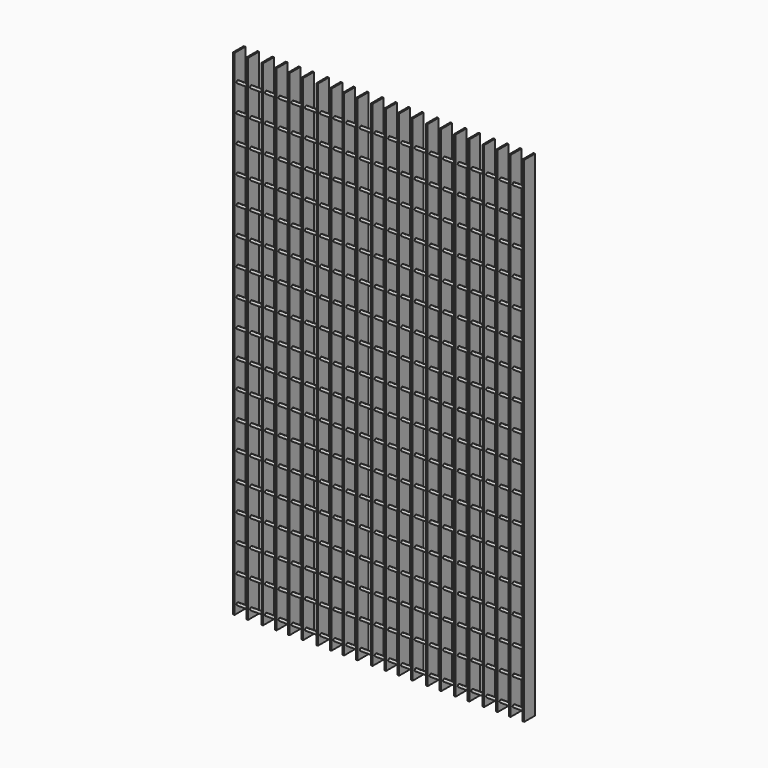
from build123d import *

# Parameters (mm, degrees)
F0_W     = 6
F0_H     = 1830
F1_DEPTH = 50
F3_DEPTH = 535


with BuildPart() as f1:
    # F0 (on Front) → F1 (new body)
    with BuildSketch(Plane.XZ):
        with Locations((-532, 0)):
            Rectangle(F0_W, F0_H)
        with Locations((-482, 0)):
            Rectangle(F0_W, F0_H)
        with Locations((-426.807425, 0)):
            Rectangle(F0_W, F0_H)
        with Locations((-376.807425, 0)):
            Rectangle(F0_W, F0_H)
        with Locations((-328.715792, 2.1e-05)):
            Rectangle(F0_W, F0_H)
        with Locations((-278.715792, 2.1e-05)):
            Rectangle(F0_W, F0_H)
        with Locations((-223.523217, 2.1e-05)):
            Rectangle(F0_W, F0_H)
        with Locations((-173.523217, 2.1e-05)):
            Rectangle(F0_W, F0_H)
        with Locations((-126.523218, 2.1e-05)):
            Rectangle(F0_W, F0_H)
        with Locations((-76.523218, 2.1e-05)):
            Rectangle(F0_W, F0_H)
        with Locations((-21.330642, 2.1e-05)):
            Rectangle(F0_W, F0_H)
        with Locations((28.669358, 2.1e-05)):
            Rectangle(F0_W, F0_H)
        with Locations((76.76099, 4.3e-05)):
            Rectangle(F0_W, F0_H)
        with Locations((126.76099, 4.3e-05)):
            Rectangle(F0_W, F0_H)
        with Locations((181.953565, 4.3e-05)):
            Rectangle(F0_W, F0_H)
        with Locations((231.953565, 4.3e-05)):
            Rectangle(F0_W, F0_H)
        with Locations((285.95365, 4.3e-05)):
            Rectangle(F0_W, F0_H)
        with Locations((335.95365, 4.3e-05)):
            Rectangle(F0_W, F0_H)
        with Locations((391.146225, 4.3e-05)):
            Rectangle(F0_W, F0_H)
        with Locations((441.146225, 4.3e-05)):
            Rectangle(F0_W, F0_H)
        with Locations((489.237857, 6.4e-05)):
            Rectangle(F0_W, F0_H)
        with Locations((539.237857, 6.4e-05)):
            Rectangle(F0_W, F0_H)
    extrude(amount=F1_DEPTH)


with BuildPart() as f3:
    # F2 (on Right) → F3 (new body, symmetric)
    with BuildSketch(Plane.YZ):
        with BuildLine():
            ThreePointArc((-30.738351, 815.29274), (-32.202817, 818.828274), (-35.738351, 820.29274))
            Line((-35.738351, 820.29274), (-35.738351, 815.29274))
            Line((-35.738351, 815.29274), (-35.738351, 810.29274))
            ThreePointArc((-35.738351, 810.29274), (-32.202817, 811.757206), (-30.738351, 815.29274))
        make_face()
        with BuildLine():
            ThreePointArc((-30.738351, -884.70726), (-32.202817, -881.171726), (-35.738351, -879.70726))
            ThreePointArc((-35.738351, -879.70726), (-39.273885, -888.242794), (-30.738351, -884.70726))
        make_face()
        with BuildLine():
            ThreePointArc((-30.738351, -784.70726), (-32.202817, -781.171726), (-35.738351, -779.70726))
            Line((-35.738351, -779.70726), (-35.738351, -784.70726))
            Line((-35.738351, -784.70726), (-35.738351, -789.70726))
            ThreePointArc((-35.738351, -789.70726), (-32.202817, -788.242794), (-30.738351, -784.70726))
        make_face()
        with BuildLine():
            Line((-35.738351, -784.70726), (-35.738351, -779.70726))
            ThreePointArc((-35.738351, -779.70726), (-40.738351, -784.70726), (-35.738351, -789.70726))
            Line((-35.738351, -789.70726), (-35.738351, -784.70726))
        make_face()
        with BuildLine():
            ThreePointArc((-30.738351, -684.70726), (-32.202817, -681.171726), (-35.738351, -679.70726))
            Line((-35.738351, -679.70726), (-35.738351, -684.70726))
            Line((-35.738351, -684.70726), (-35.738351, -689.70726))
            ThreePointArc((-35.738351, -689.70726), (-32.202817, -688.242794), (-30.738351, -684.70726))
        make_face()
        with BuildLine():
            Line((-35.738351, -684.70726), (-35.738351, -679.70726))
            ThreePointArc((-35.738351, -679.70726), (-40.738351, -684.70726), (-35.738351, -689.70726))
            Line((-35.738351, -689.70726), (-35.738351, -684.70726))
        make_face()
        with BuildLine():
            ThreePointArc((-30.738351, -584.70726), (-32.202817, -581.171726), (-35.738351, -579.70726))
            Line((-35.738351, -579.70726), (-35.738351, -584.70726))
            Line((-35.738351, -584.70726), (-35.738351, -589.70726))
            ThreePointArc((-35.738351, -589.70726), (-32.202817, -588.242794), (-30.738351, -584.70726))
        make_face()
        with BuildLine():
            Line((-35.738351, -584.70726), (-35.738351, -579.70726))
            ThreePointArc((-35.738351, -579.70726), (-40.738351, -584.70726), (-35.738351, -589.70726))
            Line((-35.738351, -589.70726), (-35.738351, -584.70726))
        make_face()
        with BuildLine():
            ThreePointArc((-30.738351, -484.70726), (-32.202817, -481.171726), (-35.738351, -479.70726))
            Line((-35.738351, -479.70726), (-35.738351, -484.70726))
            Line((-35.738351, -484.70726), (-35.738351, -489.70726))
            ThreePointArc((-35.738351, -489.70726), (-32.202817, -488.242794), (-30.738351, -484.70726))
        make_face()
        with BuildLine():
            Line((-35.738351, -484.70726), (-35.738351, -479.70726))
            ThreePointArc((-35.738351, -479.70726), (-40.738351, -484.70726), (-35.738351, -489.70726))
            Line((-35.738351, -489.70726), (-35.738351, -484.70726))
        make_face()
        with BuildLine():
            ThreePointArc((-30.738351, -384.70726), (-32.202817, -381.171726), (-35.738351, -379.70726))
            Line((-35.738351, -379.70726), (-35.738351, -384.70726))
            Line((-35.738351, -384.70726), (-35.738351, -389.70726))
            ThreePointArc((-35.738351, -389.70726), (-32.202817, -388.242794), (-30.738351, -384.70726))
        make_face()
        with BuildLine():
            Line((-35.738351, -384.70726), (-35.738351, -379.70726))
            ThreePointArc((-35.738351, -379.70726), (-40.738351, -384.70726), (-35.738351, -389.70726))
            Line((-35.738351, -389.70726), (-35.738351, -384.70726))
        make_face()
        with BuildLine():
            ThreePointArc((-30.738351, -284.70726), (-32.202817, -281.171726), (-35.738351, -279.70726))
            Line((-35.738351, -279.70726), (-35.738351, -284.70726))
            Line((-35.738351, -284.70726), (-35.738351, -289.70726))
            ThreePointArc((-35.738351, -289.70726), (-32.202817, -288.242794), (-30.738351, -284.70726))
        make_face()
        with BuildLine():
            Line((-35.738351, -284.70726), (-35.738351, -279.70726))
            ThreePointArc((-35.738351, -279.70726), (-40.738351, -284.70726), (-35.738351, -289.70726))
            Line((-35.738351, -289.70726), (-35.738351, -284.70726))
        make_face()
        with BuildLine():
            ThreePointArc((-30.738351, -184.70726), (-32.202817, -181.171726), (-35.738351, -179.70726))
            Line((-35.738351, -179.70726), (-35.738351, -184.70726))
            Line((-35.738351, -184.70726), (-35.738351, -189.70726))
            ThreePointArc((-35.738351, -189.70726), (-32.202817, -188.242794), (-30.738351, -184.70726))
        make_face()
        with BuildLine():
            Line((-35.738351, -184.70726), (-35.738351, -179.70726))
            ThreePointArc((-35.738351, -179.70726), (-40.738351, -184.70726), (-35.738351, -189.70726))
            Line((-35.738351, -189.70726), (-35.738351, -184.70726))
        make_face()
        with BuildLine():
            ThreePointArc((-30.738351, -84.70726), (-32.202817, -81.171726), (-35.738351, -79.70726))
            Line((-35.738351, -79.70726), (-35.738351, -84.70726))
            Line((-35.738351, -84.70726), (-35.738351, -89.70726))
            ThreePointArc((-35.738351, -89.70726), (-32.202817, -88.242794), (-30.738351, -84.70726))
        make_face()
        with BuildLine():
            Line((-35.738351, -84.70726), (-35.738351, -79.70726))
            ThreePointArc((-35.738351, -79.70726), (-40.738351, -84.70726), (-35.738351, -89.70726))
            Line((-35.738351, -89.70726), (-35.738351, -84.70726))
        make_face()
        with BuildLine():
            ThreePointArc((-30.738351, 15.29274), (-32.202817, 18.828274), (-35.738351, 20.29274))
            Line((-35.738351, 20.29274), (-35.738351, 15.29274))
            Line((-35.738351, 15.29274), (-35.738351, 10.29274))
            ThreePointArc((-35.738351, 10.29274), (-32.202817, 11.757206), (-30.738351, 15.29274))
        make_face()
        with BuildLine():
            Line((-35.738351, 15.29274), (-35.738351, 20.29274))
            ThreePointArc((-35.738351, 20.29274), (-40.738351, 15.29274), (-35.738351, 10.29274))
            Line((-35.738351, 10.29274), (-35.738351, 15.29274))
        make_face()
        with BuildLine():
            ThreePointArc((-30.738351, 115.29274), (-32.202817, 118.828274), (-35.738351, 120.29274))
            Line((-35.738351, 120.29274), (-35.738351, 115.29274))
            Line((-35.738351, 115.29274), (-35.738351, 110.29274))
            ThreePointArc((-35.738351, 110.29274), (-32.202817, 111.757206), (-30.738351, 115.29274))
        make_face()
        with BuildLine():
            Line((-35.738351, 115.29274), (-35.738351, 120.29274))
            ThreePointArc((-35.738351, 120.29274), (-40.738351, 115.29274), (-35.738351, 110.29274))
            Line((-35.738351, 110.29274), (-35.738351, 115.29274))
        make_face()
        with BuildLine():
            ThreePointArc((-30.738351, 215.29274), (-32.202817, 218.828274), (-35.738351, 220.29274))
            Line((-35.738351, 220.29274), (-35.738351, 215.29274))
            Line((-35.738351, 215.29274), (-35.738351, 210.29274))
            ThreePointArc((-35.738351, 210.29274), (-32.202817, 211.757206), (-30.738351, 215.29274))
        make_face()
        with BuildLine():
            Line((-35.738351, 215.29274), (-35.738351, 220.29274))
            ThreePointArc((-35.738351, 220.29274), (-40.738351, 215.29274), (-35.738351, 210.29274))
            Line((-35.738351, 210.29274), (-35.738351, 215.29274))
        make_face()
        with BuildLine():
            ThreePointArc((-30.738351, 315.29274), (-32.202817, 318.828274), (-35.738351, 320.29274))
            Line((-35.738351, 320.29274), (-35.738351, 315.29274))
            Line((-35.738351, 315.29274), (-35.738351, 310.29274))
            ThreePointArc((-35.738351, 310.29274), (-32.202817, 311.757206), (-30.738351, 315.29274))
        make_face()
        with BuildLine():
            Line((-35.738351, 315.29274), (-35.738351, 320.29274))
            ThreePointArc((-35.738351, 320.29274), (-40.738351, 315.29274), (-35.738351, 310.29274))
            Line((-35.738351, 310.29274), (-35.738351, 315.29274))
        make_face()
        with BuildLine():
            ThreePointArc((-30.738351, 415.29274), (-32.202817, 418.828274), (-35.738351, 420.29274))
            Line((-35.738351, 420.29274), (-35.738351, 415.29274))
            Line((-35.738351, 415.29274), (-35.738351, 410.29274))
            ThreePointArc((-35.738351, 410.29274), (-32.202817, 411.757206), (-30.738351, 415.29274))
        make_face()
        with BuildLine():
            Line((-35.738351, 415.29274), (-35.738351, 420.29274))
            ThreePointArc((-35.738351, 420.29274), (-40.738351, 415.29274), (-35.738351, 410.29274))
            Line((-35.738351, 410.29274), (-35.738351, 415.29274))
        make_face()
        with BuildLine():
            ThreePointArc((-30.738351, 515.29274), (-32.202817, 518.828274), (-35.738351, 520.29274))
            Line((-35.738351, 520.29274), (-35.738351, 515.29274))
            Line((-35.738351, 515.29274), (-35.738351, 510.29274))
            ThreePointArc((-35.738351, 510.29274), (-32.202817, 511.757206), (-30.738351, 515.29274))
        make_face()
        with BuildLine():
            Line((-35.738351, 515.29274), (-35.738351, 520.29274))
            ThreePointArc((-35.738351, 520.29274), (-40.738351, 515.29274), (-35.738351, 510.29274))
            Line((-35.738351, 510.29274), (-35.738351, 515.29274))
        make_face()
        with BuildLine():
            ThreePointArc((-30.738351, 615.29274), (-32.202817, 618.828274), (-35.738351, 620.29274))
            Line((-35.738351, 620.29274), (-35.738351, 615.29274))
            Line((-35.738351, 615.29274), (-35.738351, 610.29274))
            ThreePointArc((-35.738351, 610.29274), (-32.202817, 611.757206), (-30.738351, 615.29274))
        make_face()
        with BuildLine():
            Line((-35.738351, 615.29274), (-35.738351, 620.29274))
            ThreePointArc((-35.738351, 620.29274), (-40.738351, 615.29274), (-35.738351, 610.29274))
            Line((-35.738351, 610.29274), (-35.738351, 615.29274))
        make_face()
        with BuildLine():
            ThreePointArc((-30.738351, 715.29274), (-32.202817, 718.828274), (-35.738351, 720.29274))
            Line((-35.738351, 720.29274), (-35.738351, 715.29274))
            Line((-35.738351, 715.29274), (-35.738351, 710.29274))
            ThreePointArc((-35.738351, 710.29274), (-32.202817, 711.757206), (-30.738351, 715.29274))
        make_face()
        with BuildLine():
            Line((-35.738351, 715.29274), (-35.738351, 720.29274))
            ThreePointArc((-35.738351, 720.29274), (-40.738351, 715.29274), (-35.738351, 710.29274))
            Line((-35.738351, 710.29274), (-35.738351, 715.29274))
        make_face()
        with BuildLine():
            Line((-35.738351, 815.29274), (-35.738351, 820.29274))
            ThreePointArc((-35.738351, 820.29274), (-40.738351, 815.29274), (-35.738351, 810.29274))
            Line((-35.738351, 810.29274), (-35.738351, 815.29274))
        make_face()
    extrude(amount=F3_DEPTH, both=True)


solid = Compound([f1.part, f3.part])
